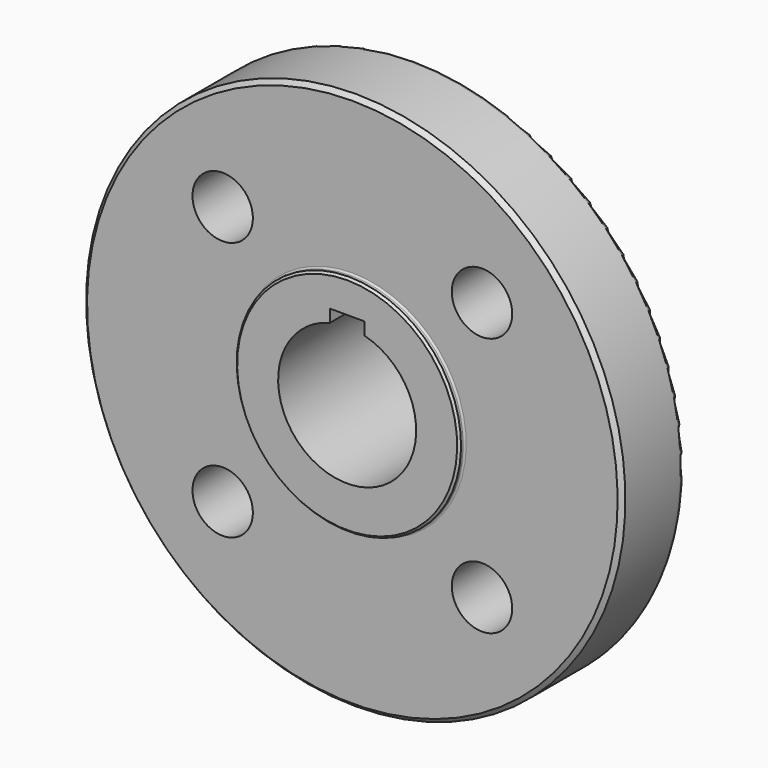
from build123d import *

# Parameters (mm, degrees)
F3_DEPTH = 46.501
F5_D     = 14
F6_R     = 2
F7_R     = 1
F8_SIZE  = 1
F9_SIZE  = 0.5
F10_R    = 0.4


with BuildPart() as f1:
    # F0 (on Right) → F1 (revolve)
    with BuildSketch(Plane.YZ):
        Polygon((1.5, 26), (0, 26), (0, 16), (46.5, 16), (46.5, 28), (19.5, 28), (19.5, 62.5), (1.5, 62.5), align=None)
    revolve(axis=Axis((0, 26.823761, 0), (0, 1, 0)))

    # F2 (on face) → F3 (cut, through all)
    with BuildSketch(Plane(origin=(0, 46.5, 0), x_dir=(-1, 0, 0), z_dir=(0, 1, 0))):
        with BuildLine():
            ThreePointArc((4, 15.491933), (0, 16), (-4, 15.491933))
            Line((-4, 15.491933), (-4, 12))
            Line((-4, 12), (4, 12))
            Line((4, 12), (4, 15.491933))
        make_face()
        with BuildLine():
            Line((4, 18.4), (-4, 18.4))
            Line((-4, 18.4), (-4, 15.491933))
            ThreePointArc((-4, 15.491933), (0, 16), (4, 15.491933))
            Line((4, 15.491933), (4, 18.4))
        make_face()
    extrude(amount=-F3_DEPTH, mode=Mode.SUBTRACT)

    # F5 (through all)
    with Locations(Plane(origin=(0, 19.5, 0), x_dir=(-1, 0, 0), z_dir=(0, 1, 0))):
        with Locations((-30.052038, 30.052038), (30.052038, 30.052038), (-30.052038, -30.052038), (30.052038, -30.052038)):
            Hole(F5_D / 2)

    # F6
    f6_edges = [f1.edges().sort_by_distance(p)[0] for p in [
        (0, 19.5, -28),
        (0, 46.5, -28),
    ]]
    fillet(f6_edges, radius=F6_R)

    # F7
    f7_edges = [f1.edges().sort_by_distance(p)[0] for p in [
        (0, 19.5, -62.5),
    ]]
    fillet(f7_edges, radius=F7_R)

    # F8
    f8_edges = [f1.edges().sort_by_distance(p)[0] for p in [
        (0, 1.5, -62.5),
    ]]
    chamfer(f8_edges, length=F8_SIZE)

    # F9
    f9_edges = [f1.edges().sort_by_distance(p)[0] for p in [
        (0, 0, -26),
    ]]
    chamfer(f9_edges, length=F9_SIZE)

    # F10
    f10_edges = [f1.edges().sort_by_distance(p)[0] for p in [
        (0, 1.5, -26),
    ]]
    fillet(f10_edges, radius=F10_R)


solid = f1.part
